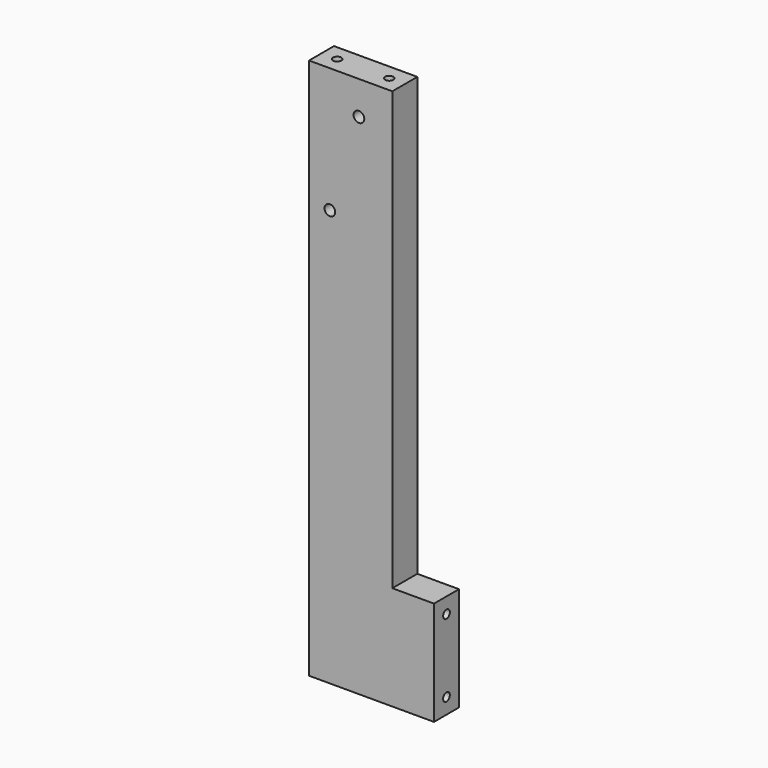
from build123d import *

# Parameters (mm, degrees)
F0_W      = 76.2
F0_H      = 330.2
F1_DEPTH  = 19.05
F2_W      = 25.4
F2_H      = 266.7
F3_DEPTH  = 19.051
F4_R      = 3.2639
F5_DEPTH  = 19.051
F6_R      = 3.2639
F7_DEPTH  = 19.051
F9_D      = 5.1054
F9_DEPTH  = 16.51
F9_TIP    = 1.5338169022
F11_D     = 5.1054
F11_DEPTH = 16.51
F11_TIP   = 1.5338169022


with BuildPart() as f1:
    # F0 (on Front) → F1 (new body)
    with BuildSketch(Plane.XZ):
        with Locations((38.1, 165.1)):
            Rectangle(F0_W, F0_H)
    extrude(amount=F1_DEPTH)

    # F2 (on face) → F3 (cut, through all)
    with BuildSketch(Plane.XZ):
        with Locations((63.5, 196.85)):
            Rectangle(F2_W, F2_H)
    extrude(amount=F3_DEPTH, mode=Mode.SUBTRACT)

    # F4 (on face) → F5 (cut, through all)
    with BuildSketch(Plane.XZ.offset(19.05)):
        with Locations((12.7, 254)):
            Circle(F4_R)
    extrude(amount=-F5_DEPTH, mode=Mode.SUBTRACT)

    # F6 (on face) → F7 (cut, through all)
    with BuildSketch(Plane.XZ.offset(19.05)):
        with Locations((30.4351865955, 309.8351865955)):
            Circle(F6_R)
    extrude(amount=-F7_DEPTH, mode=Mode.SUBTRACT)

    # F9
    with Locations(Plane.XY.offset(330.2)):
        with Locations((9.525, -9.525), (41.275, -9.525)):
            Hole(F9_D / 2, depth=F9_DEPTH)
            with Locations((0, 0, -(F9_DEPTH + F9_TIP / 2))):  # 118° drill point
                Cone(0, F9_D / 2, F9_TIP, mode=Mode.SUBTRACT)

    # F11
    with Locations(Plane.YZ.offset(76.2)):
        with Locations((-9.525, 53.975), (-9.525, 9.525)):
            Hole(F11_D / 2, depth=F11_DEPTH)
            with Locations((0, 0, -(F11_DEPTH + F11_TIP / 2))):  # 118° drill point
                Cone(0, F11_D / 2, F11_TIP, mode=Mode.SUBTRACT)


solid = f1.part
